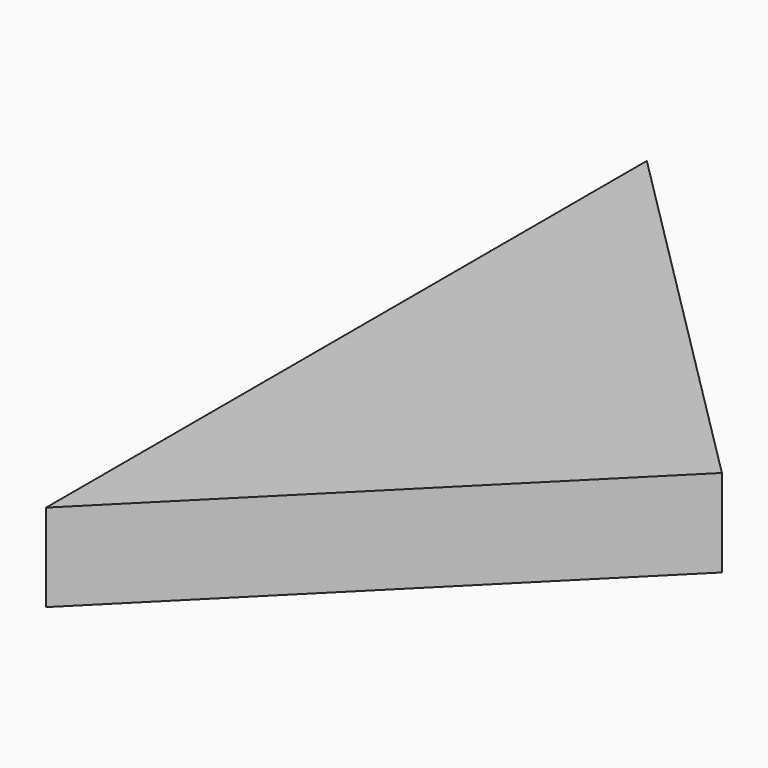
from build123d import *

# Parameters (mm, degrees)
BOX_W                  = 313
BOX_H                  = 200
BOX_DEPTH              = 37
BOX_PLACEMENT_ANGLE    = 45
BOX008_W               = 200
BOX008_H               = 200
BOX008_DEPTH           = 33
CUT007_PLACEMENT_ANGLE = 45


with BuildPart() as cube002:
    # Box → Box (new body)
    with BuildSketch(Plane.XY):
        with Locations((156.5, 100)):
            Rectangle(BOX_W, BOX_H)
    extrude(amount=BOX_DEPTH)


with BuildPart() as cube002_1:
    # Box placement: moved
    add(cube002.part.moved(Location((0, 0, -2))).rotate(Axis((0, 0, -2), (0, 0, 1)), BOX_PLACEMENT_ANGLE))


with BuildPart() as short_45a:
    # Box008 → Box008 (new body)
    with BuildSketch(Plane.XY.offset(-1)):
        with Locations((100, 100)):
            Rectangle(BOX008_W, BOX008_H)
    extrude(amount=BOX008_DEPTH)

    # Cut007: cut Cube002
    add(cube002_1.part, mode=Mode.SUBTRACT)


with BuildPart() as short_45a_1:
    # Cut007 placement: moved
    add(short_45a.part.rotate(Axis((0, 0, 0), (0, 0, 1)), CUT007_PLACEMENT_ANGLE))


solid = short_45a_1.part
